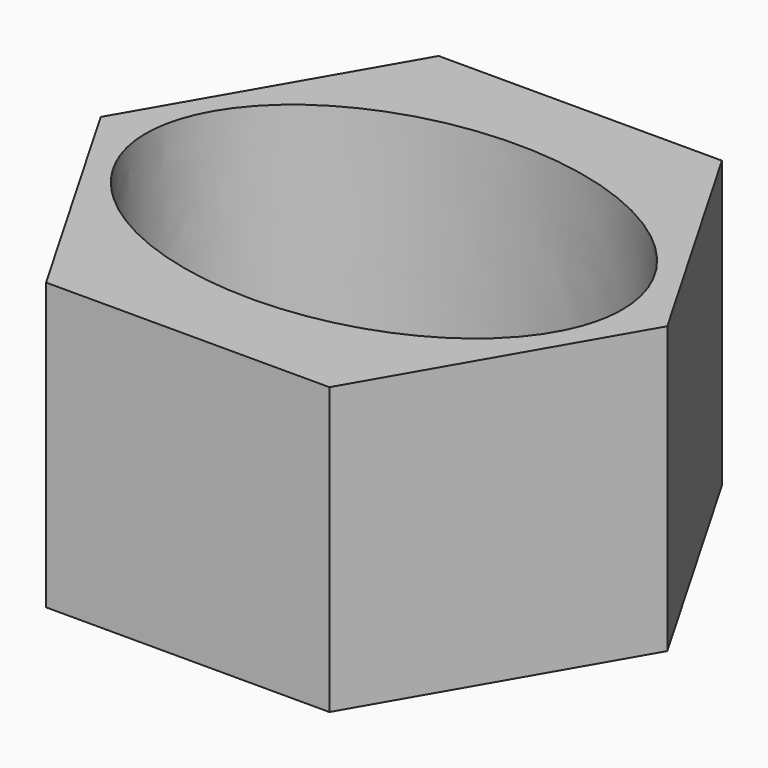
from build123d import *

# Parameters (mm, degrees)
F1_DEPTH = 30


with BuildPart() as f1:
    # F0 (on Top) → F1 (new body)
    with BuildSketch(Plane.XY):
        Polygon((14.858728, 25.736071), (-14.858728, 25.736071), (-29.717455, 0), (-14.858728, -25.736071), (14.858728, -25.736071), (29.717455, 0), align=None)
        with BuildLine():
            add(Edge.make_bspline(
                [(25, 0), (25, 30.310889), (-12.5, 15.155445), (-50, 0), (-12.5, -15.155445), (25, -30.310889), (25, 0)],
                knots=[0, 0, 0, 2.094395, 2.094395, 4.18879, 4.18879, 6.283185, 6.283185, 6.283185], degree=2, weights=[1, 0.5, 1, 0.5, 1, 0.5, 1]))
        make_face(mode=Mode.SUBTRACT)
    extrude(amount=F1_DEPTH)


solid = f1.part
